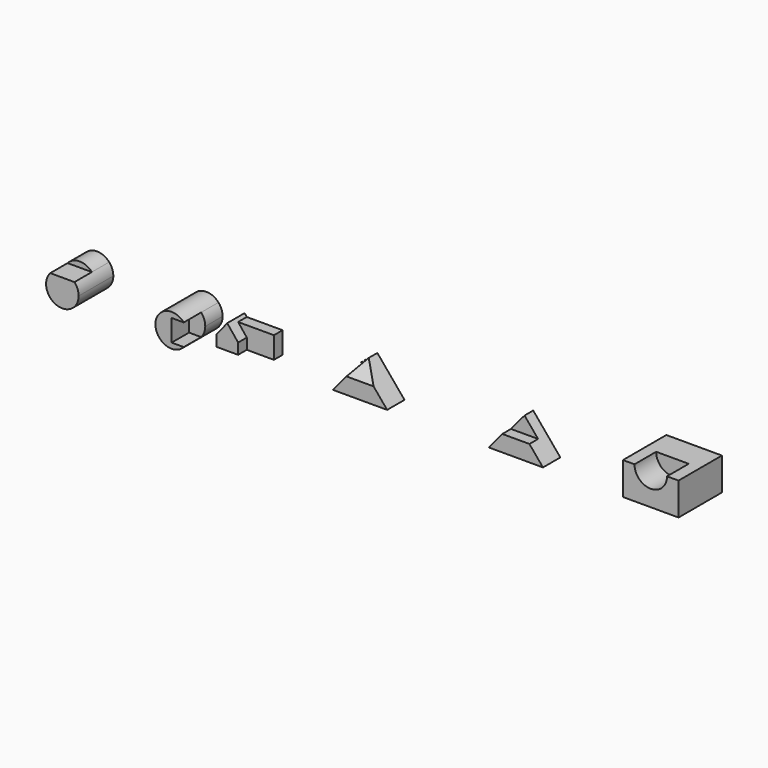
from build123d import *

# Parameters (mm, degrees)
F1_DEPTH  = 101.6
F2_DEPTH  = 101.6
F3_DEPTH  = 50.8
F5_DEPTH  = 101.6
F9_DEPTH  = 63.5
F10_W     = 127
F10_H     = 50.8
F11_DEPTH = 101.6
F12_DEPTH = 50.8
F14_DEPTH = 203.2
F15_DEPTH = 101.6
F17_DEPTH = 203.2
F18_DEPTH = 101.6
F20_DEPTH = 254
F21_DEPTH = 127


with BuildPart() as f1:
    # F0 (on Front) → F1 (new body)
    with BuildSketch(Plane.XZ):
        Polygon((211.4180455208, 76.2), (147.9180455208, 0), (401.9180455208, 0), (338.4180455208, 76.2), align=None)
    extrude(amount=-F1_DEPTH)

    # F0 (on Front) → F2 (join)
    with BuildSketch(Plane.XZ):
        Polygon((274.9180455208, 152.4), (211.4180455208, 76.2), (338.4180455208, 76.2), align=None)
    extrude(amount=-F2_DEPTH)

    # F0 (on Front) → F3 (cut)
    with BuildSketch(Plane.XZ):
        Polygon((274.9180455208, 152.4), (211.4180455208, 76.2), (338.4180455208, 76.2), align=None)
    extrude(amount=-F3_DEPTH, mode=Mode.SUBTRACT)


with BuildPart() as f5:
    # F4 (on Front) → F5 (new body)
    with BuildSketch(Plane.XZ):
        Polygon((-581.8947255611, 0), (-327.8947255611, 0), (-391.3947255611, 76.2), (-454.8947255611, 76.2), (-518.3947255611, 76.2), align=None)
        Polygon((-454.8947255611, 76.2), (-391.3947255611, 76.2), (-454.8947255611, 152.4), align=None)
        Polygon((-454.8947255611, 152.4), (-518.3947255611, 76.2), (-454.8947255611, 76.2), align=None)
    extrude(amount=-F5_DEPTH)

    # F8 (on 3pt) → F9 (cut, symmetric)
    with BuildSketch(Plane.YZ.offset(-454.8947255611)):
        Polygon((0, 151.9944816828), (0, 76.2), (50.8, 151.9944816828), align=None)
    extrude(amount=F9_DEPTH, both=True, mode=Mode.SUBTRACT)


with BuildPart() as f11:
    # F10 (on Front) → F11 (new body)
    with BuildSketch(Plane.XZ):
        Polygon((-1025.9668144226, 50.8), (-898.9668144226, 50.8), (-898.9668144226, 101.6), (-1066.6068144226, 101.6), align=None)
        Polygon((-1127.5668144226, 0), (-1025.9668144226, 0), (-1025.9668144226, 50.8), (-1066.6068144226, 101.6), (-1076.7668144226, 114.3), (-1127.5668144226, 50.8), align=None)
        with Locations((-962.4668144226, 25.4)):
            Rectangle(F10_W, F10_H)
    extrude(amount=-F11_DEPTH)

    # F10 (on Front) → F12 (cut)
    with BuildSketch(Plane.XZ):
        Polygon((-1025.9668144226, 50.8), (-898.9668144226, 50.8), (-898.9668144226, 101.6), (-1066.6068144226, 101.6), align=None)
        with Locations((-962.4668144226, 25.4)):
            Rectangle(F10_W, F10_H)
    extrude(amount=-F12_DEPTH, mode=Mode.SUBTRACT)


with BuildPart() as f14:
    # F13 (on Front) → F14 (new body)
    with BuildSketch(Plane.XZ):
        with BuildLine():
            ThreePointArc((-1905.9082796818, 50.8), (-1876.301996294, -71.183933753), (-1772.9121530533, 0))
            ThreePointArc((-1772.9121530533, 0), (-1777.9282193003, 27.1898432407), (-1792.3160264248, 50.8))
            Line((-1792.3160264248, 50.8), (-1849.1121530533, 50.8))
            Line((-1849.1121530533, 50.8), (-1905.9082796818, 50.8))
        make_face()
        with BuildLine():
            Line((-1849.1121530533, 50.8), (-1792.3160264248, 50.8))
            ThreePointArc((-1792.3160264248, 50.8), (-1849.1121530533, 76.2), (-1905.9082796818, 50.8))
            Line((-1905.9082796818, 50.8), (-1849.1121530533, 50.8))
        make_face()
    extrude(amount=-F14_DEPTH)

    # F13 (on Front) → F15 (cut)
    with BuildSketch(Plane.XZ):
        with BuildLine():
            Line((-1849.1121530533, 50.8), (-1792.3160264248, 50.8))
            ThreePointArc((-1792.3160264248, 50.8), (-1849.1121530533, 76.2), (-1905.9082796818, 50.8))
            Line((-1905.9082796818, 50.8), (-1849.1121530533, 50.8))
        make_face()
    extrude(amount=-F15_DEPTH, mode=Mode.SUBTRACT)


with BuildPart() as f17:
    # F16 (on Front) → F17 (new body)
    with BuildSketch(Plane.XZ):
        with BuildLine():
            ThreePointArc((-1280.3925940746, -50.8), (-1266.0047869502, -27.1898432407), (-1260.9887207031, 0))
            ThreePointArc((-1260.9887207031, 0), (-1266.0047869502, 27.1898432407), (-1280.3925940746, 50.8))
            Line((-1280.3925940746, 50.8), (-1337.1887207031, 50.8))
            Line((-1337.1887207031, 50.8), (-1337.1887207031, 0))
            Line((-1337.1887207031, 0), (-1337.1887207031, -50.8))
            Line((-1337.1887207031, -50.8), (-1280.3925940746, -50.8))
        make_face()
        with BuildLine():
            Line((-1337.1887207031, 50.8), (-1280.3925940746, 50.8))
            ThreePointArc((-1280.3925940746, 50.8), (-1413.3887207031, 0), (-1280.3925940746, -50.8))
            Line((-1280.3925940746, -50.8), (-1337.1887207031, -50.8))
            Line((-1337.1887207031, -50.8), (-1337.1887207031, 0))
            Line((-1337.1887207031, 0), (-1337.1887207031, 50.8))
        make_face()
    extrude(amount=-F17_DEPTH)

    # F16 (on Front) → F18 (cut)
    with BuildSketch(Plane.XZ):
        with BuildLine():
            ThreePointArc((-1280.3925940746, -50.8), (-1266.0047869502, -27.1898432407), (-1260.9887207031, 0))
            ThreePointArc((-1260.9887207031, 0), (-1266.0047869502, 27.1898432407), (-1280.3925940746, 50.8))
            Line((-1280.3925940746, 50.8), (-1337.1887207031, 50.8))
            Line((-1337.1887207031, 50.8), (-1337.1887207031, 0))
            Line((-1337.1887207031, 0), (-1337.1887207031, -50.8))
            Line((-1337.1887207031, -50.8), (-1280.3925940746, -50.8))
        make_face()
    extrude(amount=-F18_DEPTH, mode=Mode.SUBTRACT)


with BuildPart() as f20:
    # F19 (on Front) → F20 (new body)
    with BuildSketch(Plane.XZ):
        with BuildLine():
            Line((776.4872312546, 152.4), (776.4872312546, 0))
            Line((776.4872312546, 0), (1036.8044717789, 0))
            Line((1036.8044717789, 0), (1036.8044717789, 152.4))
            Line((1036.8044717789, 152.4), (986.0044717789, 152.4))
            Line((986.0044717789, 152.4), (982.8458515167, 152.4))
            ThreePointArc((982.8458515167, 152.4), (906.6458515167, 76.2), (830.4458515167, 152.4))
            Line((830.4458515167, 152.4), (827.2872312546, 152.4))
            Line((827.2872312546, 152.4), (776.4872312546, 152.4))
        make_face()
        with BuildLine():
            Line((906.6458515167, 152.4), (830.4458515167, 152.4))
            ThreePointArc((830.4458515167, 152.4), (906.6458515167, 76.2), (982.8458515167, 152.4))
            Line((982.8458515167, 152.4), (906.6458515167, 152.4))
        make_face()
    extrude(amount=-F20_DEPTH)

    # F19 (on Front) → F21 (cut)
    with BuildSketch(Plane.XZ):
        with BuildLine():
            Line((906.6458515167, 152.4), (830.4458515167, 152.4))
            ThreePointArc((830.4458515167, 152.4), (906.6458515167, 76.2), (982.8458515167, 152.4))
            Line((982.8458515167, 152.4), (906.6458515167, 152.4))
        make_face()
    extrude(amount=-F21_DEPTH, mode=Mode.SUBTRACT)


solid = Compound([f1.part, f5.part, f11.part, f14.part, f17.part, f20.part])
